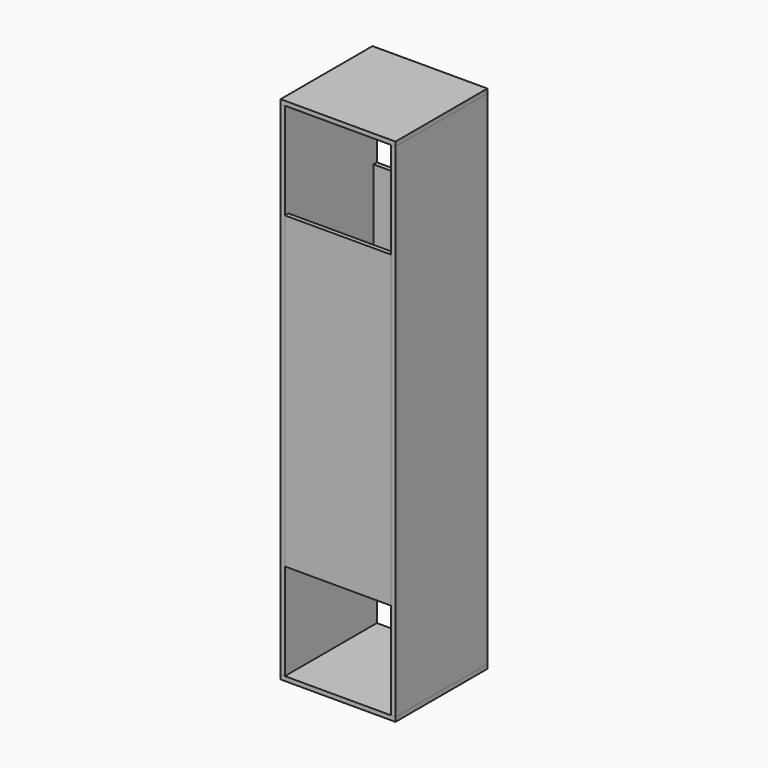
from build123d import *

# Parameters (mm, degrees)
F0_W      = 119
F0_H      = 119
F1_DEPTH  = 4.5
F2_W      = 119
F2_H      = 520
F3_DEPTH  = 4.5
F4_W      = 119
F4_H      = 520
F5_DEPTH  = 4.5
F6_W      = 119
F6_H      = 119
F7_DEPTH  = 4.5
F8_W      = 110
F8_H      = 320
F9_DEPTH  = 4.5
F10_W     = 110
F10_H     = 320
F11_DEPTH = 4.5


with BuildPart() as f1:
    # F0 (on Top) → F1 (new body)
    with BuildSketch(Plane.XY):
        with Locations((-12.230827, -1.918554)):
            Rectangle(F0_W, F0_H)
    extrude(amount=-F1_DEPTH)


with BuildPart() as f3:
    # F2 (on face) → F3 (new body)
    with BuildSketch(Plane.YZ.offset(47.269173)):
        with Locations((-1.918554, 260)):
            Rectangle(F2_W, F2_H)
    extrude(amount=-F3_DEPTH)


with BuildPart() as f5:
    # F4 (on face) → F5 (new body)
    with BuildSketch(Plane(origin=(-71.730827, 0, 0), x_dir=(0, -1, 0), z_dir=(-1, 0, 0))):
        with Locations((1.918554, 260)):
            Rectangle(F4_W, F4_H)
    extrude(amount=-F5_DEPTH)


with BuildPart() as f7:
    # F6 (on face) → F7 (new body)
    with BuildSketch(Plane.XY.offset(520)):
        with Locations((-12.230827, -1.918554)):
            Rectangle(F6_W, F6_H)
    extrude(amount=F7_DEPTH)


with BuildPart() as f9:
    # F8 (on face) → F9 (new body)
    with BuildSketch(Plane.XZ.offset(61.418554)):
        with Locations((-12.230827, 260)):
            Rectangle(F8_W, F8_H)
    extrude(amount=-F9_DEPTH)


with BuildPart() as f11:
    # F10 (on face) → F11 (new body)
    with BuildSketch(Plane(origin=(0, 57.581446, 0), x_dir=(-1, 0, 0), z_dir=(0, 1, 0))):
        with Locations((12.230827, 260)):
            Rectangle(F10_W, F10_H)
    extrude(amount=-F11_DEPTH)


solid = Compound([f1.part, f3.part, f5.part, f7.part, f9.part, f11.part])
